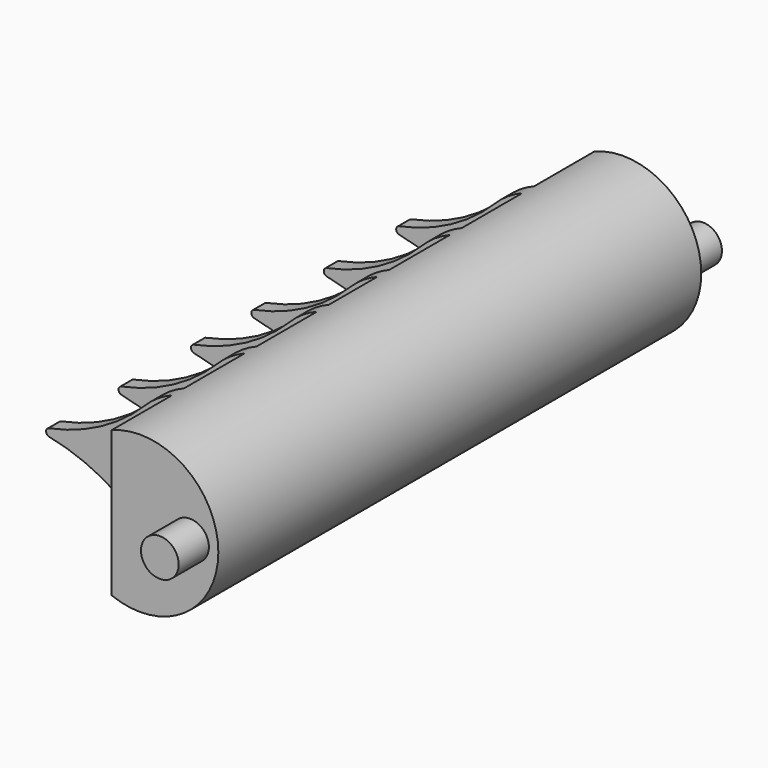
from build123d import *

# Parameters (mm, degrees)
F1_DEPTH = 80
F3_DEPTH = 12.5
F4_R     = 2.5
F5_DEPTH = 5
F6_R     = 2.5
F7_DEPTH = 5


with BuildPart() as f1:
    # F0 (on Front) → F1 (new body)
    with BuildSketch(Plane.XZ):
        with BuildLine():
            ThreePointArc((9.05775, 7.130023), (3.187096, 2.771486), (-3.69351, 0.297888))
            ThreePointArc((-3.69351, 0.297888), (-4.094982, -0.192308), (-3.69351, -0.682504))
            ThreePointArc((-3.69351, -0.682504), (3.187096, -3.156101), (9.05775, -7.514638))
            ThreePointArc((9.05775, -7.514638), (26.735419, -0.192308), (9.05775, 7.130023))
        make_face()
    extrude(amount=F1_DEPTH)

    # F2 (on Top) → F3 (cut, symmetric)
    with BuildSketch(Plane.XY):
        Polygon((-6.228959, -12), (-6.228959, -10), (12.586473, -10), (12.586473, 2.989336), (-20.302792, 2.989336), (-20.302792, -84.092789), (12.586473, -84.752782), (12.586473, -70), (-6.228959, -70), (-6.228959, -68), (12.586473, -68), (12.586473, -58), (-6.228959, -58), (-6.228959, -56), (12.586473, -56), (12.586473, -46), (-5.693135, -46), (-5.693135, -44), (12.586473, -44), (12.586473, -36), (-6.228959, -36), (-6.228959, -34), (12.586473, -34), (12.586473, -24), (-6.228959, -24), (-6.228959, -22), (12.586473, -22), (12.586473, -12), align=None)
    extrude(amount=F3_DEPTH, both=True, mode=Mode.SUBTRACT)

    # F4 (on face) → F5 (join)
    with BuildSketch(Plane.XZ.offset(80)):
        with Locations((22.98077, 0)):
            Circle(F4_R)
    extrude(amount=F5_DEPTH)

    # F6 (on face) → F7 (join)
    with BuildSketch(Plane(origin=(0, 0, 0), x_dir=(-1, 0, 0), z_dir=(0, 1, 0))):
        with Locations((-22.98077, 0)):
            Circle(F6_R)
    extrude(amount=F7_DEPTH)


solid = f1.part
